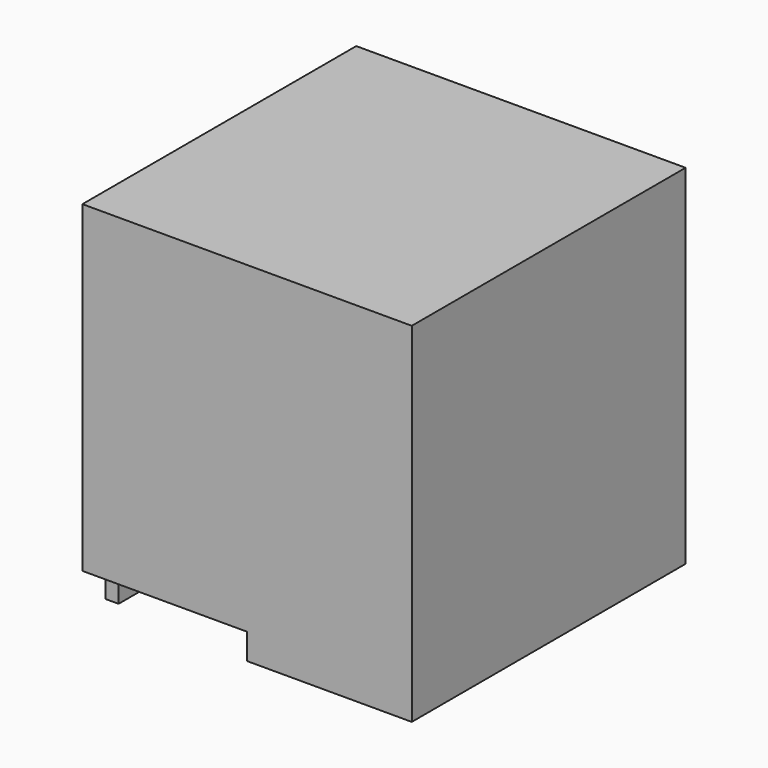
from build123d import *

# Parameters (mm, degrees)
F0_W      = 161.925
F0_H      = 336.55
F1_DEPTH  = 342.9
F2_W      = 285.75
F2_H      = 311.15
F3_DEPTH  = 317.5
F4_W      = 165.1
F4_H      = 222.25
F5_DEPTH  = 50.8
F6_W      = 228.6
F6_H      = 279.4
F7_DEPTH  = 76.2
F8_W      = 355.6
F8_H      = 25.4
F9_DEPTH  = 203.2
F10_W     = 12.7
F10_H     = 254
F12_DEPTH = 19.05
F13_W     = 12.7
F13_H     = 254
F14_DEPTH = 19.05
F15_W     = 12.7
F15_H     = 60.325
F16_DEPTH = 25.4
F17_W     = 12.7
F17_H     = 60.325
F18_DEPTH = 25.4


with BuildPart() as f1:
    # F0 (on Top) → F1 (new body)
    with BuildSketch(Plane.XY):
        with Locations((-80.9625, 4.714677)):
            Rectangle(F0_W, F0_H)
        with Locations((80.9625, 4.714677)):
            Rectangle(F0_W, F0_H)
    extrude(amount=F1_DEPTH)

    # F2 (on face) → F3 (cut)
    with BuildSketch(Plane(origin=(0, 0, 0), x_dir=(1, 0, 0), z_dir=(0, 0, -1))):
        with Locations((6.35, -4.714677)):
            Rectangle(F2_W, F2_H)
    extrude(amount=-F3_DEPTH, mode=Mode.SUBTRACT)

    # F4 (on face) → F5 (cut)
    with BuildSketch(Plane(origin=(-161.925, 0, 0), x_dir=(0, -1, 0), z_dir=(-1, 0, 0))):
        with Locations((-4.714677, 111.125)):
            Rectangle(F4_W, F4_H)
    extrude(amount=-F5_DEPTH, mode=Mode.SUBTRACT)

    # F6 (on face) → F7 (cut)
    with BuildSketch(Plane(origin=(-161.925, 0, 0), x_dir=(0, -1, 0), z_dir=(-1, 0, 0))):
        with Locations((-4.714677, 139.7)):
            Rectangle(F6_W, F6_H)
    extrude(amount=-F7_DEPTH, mode=Mode.SUBTRACT)

    # F8 (on Right) → F9 (cut)
    with BuildSketch(Plane.YZ):
        with Locations((5.509312, 12.7)):
            Rectangle(F8_W, F8_H)
    extrude(amount=-F9_DEPTH, mode=Mode.SUBTRACT)

    # F10 (on face) → F12 (join)
    with BuildSketch(Plane.XZ.offset(-119.014677)):
        with Locations((-142.875, 152.4)):
            Rectangle(F10_W, F10_H)
    extrude(amount=F12_DEPTH)

    # F13 (on face) → F14 (join)
    with BuildSketch(Plane(origin=(0, -109.585323, 0), x_dir=(-1, 0, 0), z_dir=(0, 1, 0))):
        with Locations((142.875, 152.4)):
            Rectangle(F13_W, F13_H)
    extrude(amount=F14_DEPTH)

    # F15 (on face) → F16 (join)
    with BuildSketch(Plane(origin=(0, 0, 25.4), x_dir=(1, 0, 0), z_dir=(0, 0, -1))):
        with Locations((-142.875, 120.697823)):
            Rectangle(F15_W, F15_H)
    extrude(amount=F16_DEPTH)

    # F17 (on face) → F18 (join)
    with BuildSketch(Plane(origin=(0, 0, 25.4), x_dir=(1, 0, 0), z_dir=(0, 0, -1))):
        with Locations((-142.875, -130.127177)):
            Rectangle(F17_W, F17_H)
    extrude(amount=F18_DEPTH)


solid = f1.part
